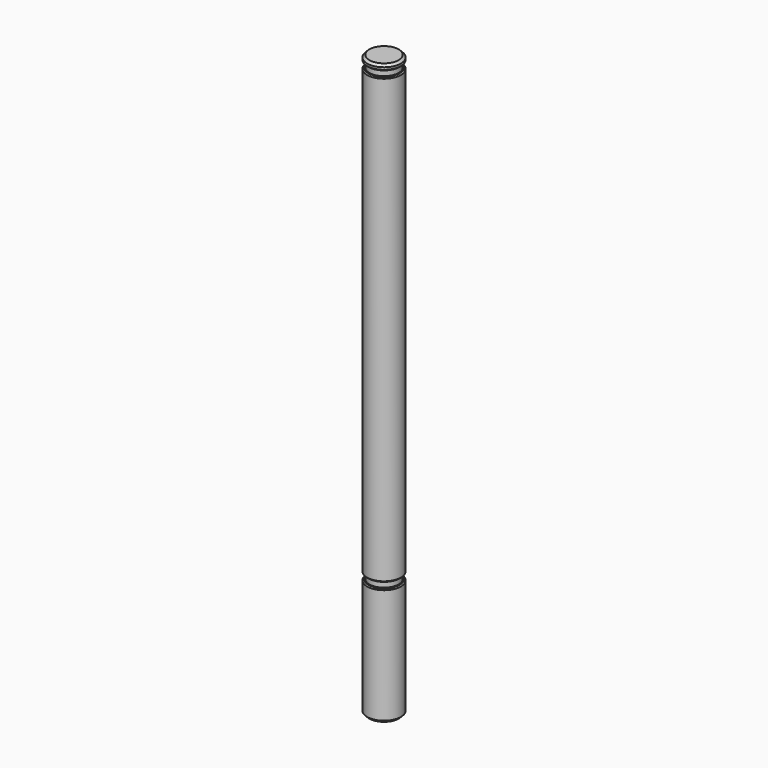
from build123d import *

# Parameters (mm, degrees)
F0_R        = 1.5
F0_R_2      = 1.3
F1_DEPTH    = 39.5
F2_DEPTH    = 1
F3_START    = -0.5
F3_DEPTH    = 0.5
F4_DEPTH    = 10
F5_R        = 1.3
F6_DEPTH    = 1
F7_START    = 0.5
F1_FACE_R   = 1.5
F1_FACE_R_2 = 1.3
F7_DEPTH    = 0.5
F8_SIZE     = 0.2
F9_SIZE     = 0.1


with BuildPart() as f1:
    # F0 (on Top) → F1 (new body)
    with BuildSketch(Plane.XY):
        Circle(F0_R)
        Circle(F0_R_2, mode=Mode.SUBTRACT)
        Circle(F0_R_2)
    extrude(amount=F1_DEPTH)

    # F0 (on Top) → F2 (join)
    with BuildSketch(Plane.XY):
        Circle(F0_R_2)
    extrude(amount=-F2_DEPTH)

    # F0 (on Top) → F3 (join)
    with BuildSketch(Plane.XY.offset(F3_START)):
        Circle(F0_R)
        Circle(F0_R_2, mode=Mode.SUBTRACT)
    extrude(amount=-F3_DEPTH)

    # F4 (add): a face of the model
    f4_faces = [f1.faces().sort_by_distance(p)[0] for p in [
        (0, 0, -1),
    ]]
    extrude(f4_faces, amount=F4_DEPTH)

    # F5 (on face) → F6 (join)
    with BuildSketch(Plane.XY.offset(39.5)):
        Circle(F5_R)
    extrude(amount=F6_DEPTH)

    # F1_face (on face) → F7 (join)
    with BuildSketch(Plane.XY.offset(39.5).offset(F7_START)):
        Circle(F1_FACE_R)
        Circle(F1_FACE_R_2, mode=Mode.SUBTRACT)
    extrude(amount=F7_DEPTH)

    # F8
    f8_edges = [f1.edges().sort_by_distance(p)[0] for p in [
        (-1.5, 0, 40.5),
        (-1.5, 0, -11),
    ]]
    chamfer(f8_edges, length=F8_SIZE)

    # F9
    f9_edges = [f1.edges().sort_by_distance(p)[0] for p in [
        (-1.5, 0, 39.5),
        (-1.5, 0, 40),
        (-1.5, 0, 0),
        (-1.5, 0, -0.5),
    ]]
    chamfer(f9_edges, length=F9_SIZE)


solid = f1.part
